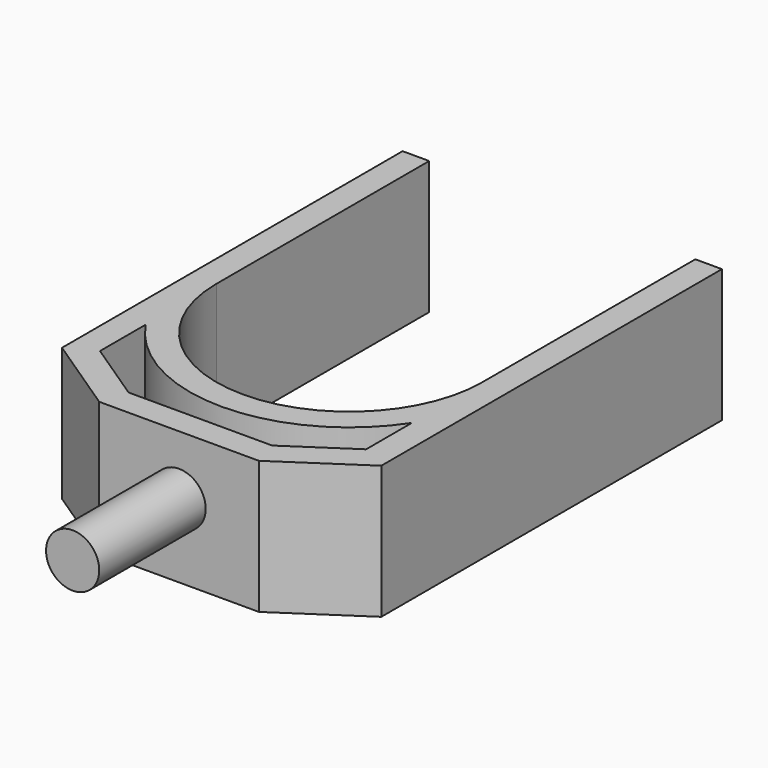
from build123d import *

# Parameters (mm, degrees)
F1_DEPTH = 25
F2_R     = 5
F3_DEPTH = 25


with BuildPart() as f1:
    # F0 (on Top) → F1 (new body)
    with BuildSketch(Plane.XY):
        with BuildLine():
            ThreePointArc((25, 0), (0, -25), (-25, 0))
            Line((-25, 0), (-25, 50))
            Line((-25, 50), (-30, 50))
            Line((-30, 50), (-30, 0))
            Line((-30, 0), (-30, -30))
            Line((-30, -30), (-15, -40))
            Line((-15, -40), (15, -40))
            Line((15, -40), (30, -30))
            Line((30, -30), (30, 0))
            Line((30, 0), (30, 50))
            Line((30, 50), (25, 50))
            Line((25, 50), (25, 0))
        make_face()
        with BuildLine():
            Line((-25, -27.324081), (-25, -16.583123))
            ThreePointArc((-25, -16.583123), (0, -30), (25, -16.583123))
            Line((25, -16.583123), (25, -27.324081))
            Line((25, -27.324081), (13.486122, -35))
            Line((13.486122, -35), (-13.486122, -35))
            Line((-13.486122, -35), (-25, -27.324081))
        make_face(mode=Mode.SUBTRACT)
    extrude(amount=F1_DEPTH)

    # F2 (on face) → F3 (join)
    with BuildSketch(Plane.XZ.offset(40)):
        with Locations((0, 13.801807)):
            Circle(F2_R)
    extrude(amount=F3_DEPTH)


solid = f1.part
